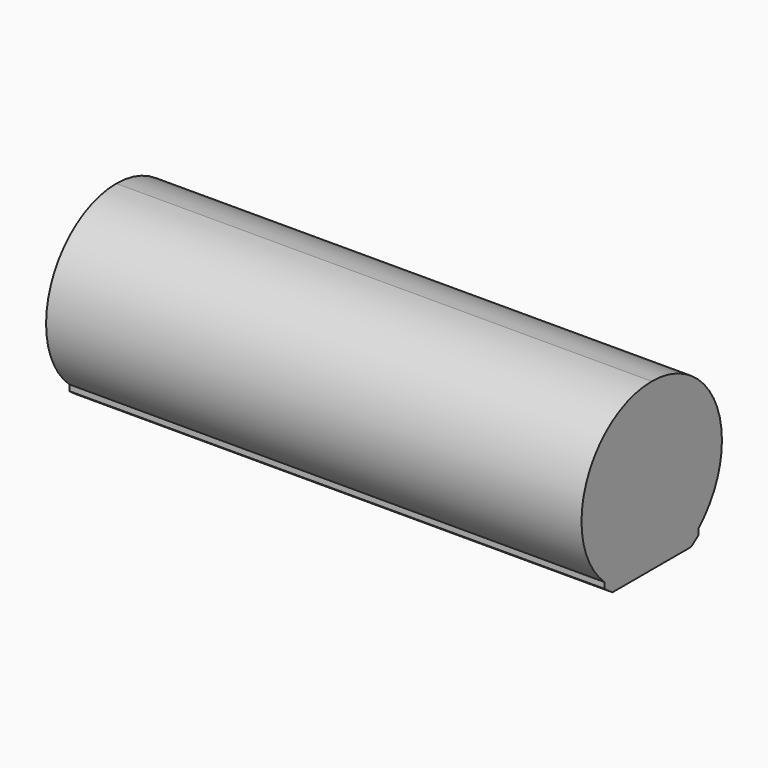
from build123d import *

# Parameters (mm, degrees)
F1_DEPTH = 9144


with BuildPart() as f1:
    # F0 (on Right) → F1 (new body)
    with BuildSketch(Plane.YZ):
        with BuildLine():
            Line((-1003.3, -1113.189593), (-1003.3, -1213.830363))
            ThreePointArc((-1003.3, -1213.830363), (-922.682337, -1276.186642), (-838.2, -1333.197585))
            Line((-838.2, -1333.197585), (0, -1333.197585))
            Line((0, -1333.197585), (0, 1498.6))
            ThreePointArc((0, 1498.6), (-1398.933144, 537.390005), (-1003.3, -1113.189593))
        make_face()
        with BuildLine():
            Line((0, 1498.6), (0, -1333.197585))
            Line((0, -1333.197585), (838.2, -1333.197585))
            ThreePointArc((838.2, -1333.197585), (922.682337, -1276.186642), (1003.3, -1213.830363))
            Line((1003.3, -1213.830363), (1003.3, -1113.189593))
            ThreePointArc((1003.3, -1113.189593), (1398.933144, 537.390005), (0, 1498.6))
        make_face()
    extrude(amount=F1_DEPTH)


solid = f1.part
